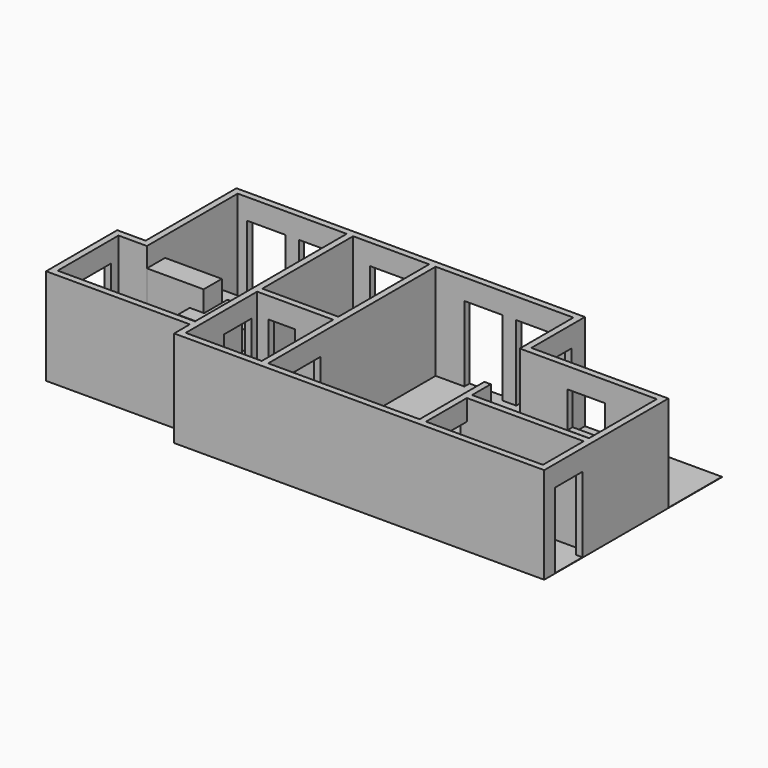
from build123d import *

# Parameters (mm, degrees)
F0_W      = 201
F0_H      = 236
F0_W_2    = 309
F0_H_2    = 135
F0_H_3    = 300
F1_DEPTH  = 255
F2_W      = 101
F2_H      = 17
F2_W_2    = 17
F2_H_2    = 90
F2_H_3    = 101
F2_W_3    = 70
F2_H_4    = 100
F3_DEPTH  = 200
F5_DEPTH  = 1
F6_W      = 175
F6_H      = 100
F7_DEPTH  = 73
F8_W      = 152
F8_H      = 37
F9_DEPTH  = 182
F10_W     = 210
F10_H     = 110
F11_DEPTH = 50
F12_W     = 150
F12_H     = 60
F13_DEPTH = 202
F14_W     = 77
F14_H     = 39
F15_DEPTH = 147
F16_W     = 39
F16_H     = 77
F17_DEPTH = 147
F18_W     = 39
F18_H     = 42
F19_DEPTH = 147
F20_W     = 99
F20_H     = 95
F21_DEPTH = 25


with BuildPart() as f1:
    # F0 (on Top) → F1 (new body)
    with BuildSketch(Plane.XY):
        Polygon((0, 235), (0, 0), (380, 0), (380, -52), (1358, -52), (1358, 358), (996, 358), (996, 535), (75, 535), (75, 235), align=None)
        with Locations((497.5, 83)):
            Rectangle(F0_W, F0_H, mode=Mode.SUBTRACT)
        with Locations((1186.5, 32.5)):
            Rectangle(F0_W_2, F0_H_2, mode=Mode.SUBTRACT)
        Polygon((92, 218), (92, 518), (380, 518), (380, 17), (17, 17), (17, 218), align=None, mode=Mode.SUBTRACT)
        with Locations((497.5, 368)):
            Rectangle(F0_W, F0_H_3, mode=Mode.SUBTRACT)
        Polygon((615, 518), (979, 518), (979, 341), (1341, 341), (1341, 117), (1032, 117), (1032, 179), (1015, 179), (1015, -35), (615, -35), align=None, mode=Mode.SUBTRACT)
    extrude(amount=F1_DEPTH)

    # F2 (on face) → F3 (cut)
    with BuildSketch(Plane(origin=(0, 0, 0), x_dir=(1, 0, 0), z_dir=(0, 0, -1))):
        with Locations((167.5, -526.5)):
            Rectangle(F2_W, F2_H)
        with Locations((304.5, -526.5)):
            Rectangle(F2_W, F2_H)
        with Locations((388.5, -137)):
            Rectangle(F2_W_2, F2_H_2)
        with Locations((8.5, -142.5)):
            Rectangle(F2_W_2, F2_H_3)
        with Locations((491.5, -526.5)):
            Rectangle(F2_W, F2_H)
        with Locations((741.5, -526.5)):
            Rectangle(F2_W, F2_H)
        with Locations((878.5, -526.5)):
            Rectangle(F2_W, F2_H)
        with Locations((462.5, -209.5)):
            Rectangle(F2_W_3, F2_H)
        with Locations((606.5, -92)):
            Rectangle(F2_W_2, F2_H_2)
        with Locations((1023.5, -50)):
            Rectangle(F2_W_2, F2_H_4)
        with Locations((987.5, -440.127259)):
            Rectangle(F2_W_2, F2_H_3)
        with Locations((1349.5, -29.254282)):
            Rectangle(F2_W_2, F2_H_2)
    extrude(amount=-F3_DEPTH, mode=Mode.SUBTRACT)

    # F4 (on face) → F5 (join)
    with BuildSketch(Plane(origin=(0, 0, 0), x_dir=(1, 0, 0), z_dir=(0, 0, -1))):
        Polygon((75, -535), (1358, -535), (1358, 52), (380, 52), (380, 0), (0, 0), (0, -235), (75, -235), align=None)
    extrude(amount=-F5_DEPTH)

    # F20 (on face) → F21 (cut)
    with BuildSketch(Plane(origin=(0, 358, 0), x_dir=(-1, 0, 0), z_dir=(0, 1, 0))):
        with Locations((-1154.5, 153.5)):
            Rectangle(F20_W, F20_H)
    extrude(amount=-F21_DEPTH, mode=Mode.SUBTRACT)


with BuildPart() as f7:
    # F6 (on face) → F7 (new body)
    with BuildSketch(Plane.XY.offset(1)):
        with Locations((117.803695, 168)):
            Rectangle(F6_W, F6_H)
    extrude(amount=F7_DEPTH)


with BuildPart() as f9:
    # F8 (on face) → F9 (new body)
    with BuildSketch(Plane.XY.offset(1)):
        with Locations((304, 35.5)):
            Rectangle(F8_W, F8_H)
    extrude(amount=F9_DEPTH)


with BuildPart() as f11:
    # F10 (on face) → F11 (new body)
    with BuildSketch(Plane.XY.offset(1)):
        with Locations((197, 413)):
            Rectangle(F10_W, F10_H)
    extrude(amount=F11_DEPTH)


with BuildPart() as f13:
    # F12 (on face) → F13 (new body)
    with BuildSketch(Plane.XY.offset(1)):
        with Locations((167, 248)):
            Rectangle(F12_W, F12_H)
    extrude(amount=F13_DEPTH)


with BuildPart() as f15:
    # F14 (on face) → F15 (new body)
    with BuildSketch(Plane.XY.offset(1)):
        with Locations((243.803695, 198.5)):
            Rectangle(F14_W, F14_H)
    extrude(amount=F15_DEPTH)


with BuildPart() as f17:
    # F16 (on face) → F17 (new body)
    with BuildSketch(Plane.XY.offset(1)):
        with Locations((262.803695, 256.5)):
            Rectangle(F16_W, F16_H)
    extrude(amount=F17_DEPTH)


with BuildPart() as f19:
    # F18 (on face) → F19 (new body)
    with BuildSketch(Plane.XY.offset(1)):
        with Locations((36.5, 38)):
            Rectangle(F18_W, F18_H)
    extrude(amount=F19_DEPTH)


solid = Compound([f1.part, f7.part, f9.part, f11.part, f13.part, f15.part, f17.part, f19.part])
